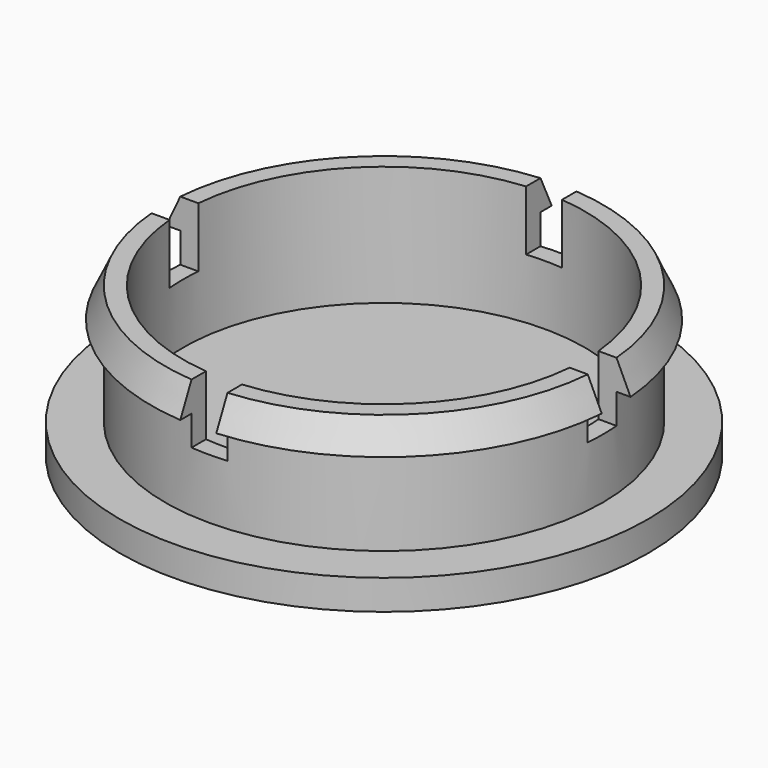
from build123d import *

# Parameters (mm, degrees)
F0_R      = 36.5
F0_R_2    = 33.5
F1_DEPTH  = 20
F2_R      = 36.5
F3_DEPTH  = 5
F3_TAPER  = -25
F4_R      = 33.5
F5_DEPTH  = 25
F6_R      = 44.05
F7_DEPTH  = 5
F10_DEPTH = 25


with BuildPart() as f1:
    # F0 (on Top) → F1 (new body)
    with BuildSketch(Plane.XY):
        Circle(F0_R)
        Circle(F0_R_2, mode=Mode.SUBTRACT)
    extrude(amount=F1_DEPTH)

    # F2 (on face) → F3 (join)
    with BuildSketch(Plane.XY.offset(20)):
        Circle(F2_R)
    extrude(amount=-F3_DEPTH, taper=F3_TAPER)

    # F4 (on face) → F5 (cut)
    with BuildSketch(Plane(origin=(0, 0, 15), x_dir=(1, 0, 0), z_dir=(0, 0, -1))):
        Circle(F4_R)
    extrude(amount=-F5_DEPTH, mode=Mode.SUBTRACT)

    # F6 (on face) → F7 (join)
    with BuildSketch(Plane(origin=(0, 0, 0), x_dir=(1, 0, 0), z_dir=(0, 0, -1))):
        Circle(F6_R)
    extrude(amount=F7_DEPTH)

    # F9 (on mid) → F10 (cut)
    with BuildSketch(Plane.XY.offset(10)):
        with BuildLine():
            Line((35.05, 3), (3, 3))
            Line((3, 3), (3, 35.05))
            Line((3, 35.05), (3, 38.3829389182))
            ThreePointArc((3, 38.3829389182), (0, 38.5), (-3, 38.3829389182))
            Line((-3, 38.3829389182), (-3, 35.05))
            Line((-3, 35.05), (-3, 3))
            Line((-3, 3), (-38.3829389182, 3))
            Line((-38.3829389182, 3), (-61.3953992724, 3))
            Line((-61.3953992724, 3), (-61.3953992724, -3))
            Line((-61.3953992724, -3), (-3, -3))
            Line((-3, -3), (-3, -40.2699470416))
            Line((-3, -40.2699470416), (-3, -53.7798181176))
            Line((-3, -53.7798181176), (3, -53.7798181176))
            Line((3, -53.7798181176), (3, -40.2699470416))
            Line((3, -40.2699470416), (3, -29.05))
            Line((3, -29.05), (3, -3))
            Line((3, -3), (61.3953992724, -3))
            Line((61.3953992724, -3), (61.3953992724, 3))
            Line((61.3953992724, 3), (38.3829389182, 3))
            Line((38.3829389182, 3), (35.05, 3))
        make_face()
        with BuildLine():
            ThreePointArc((-3, 38.3829389182), (0, 38.5), (3, 38.3829389182))
            Line((3, 38.3829389182), (3, 40.2699470416))
            Line((3, 40.2699470416), (3, 53.7798181176))
            Line((3, 53.7798181176), (-3, 53.7798181176))
            Line((-3, 53.7798181176), (-3, 40.2699470416))
            Line((-3, 40.2699470416), (-3, 38.3829389182))
        make_face()
    extrude(amount=F10_DEPTH, mode=Mode.SUBTRACT)


solid = f1.part
